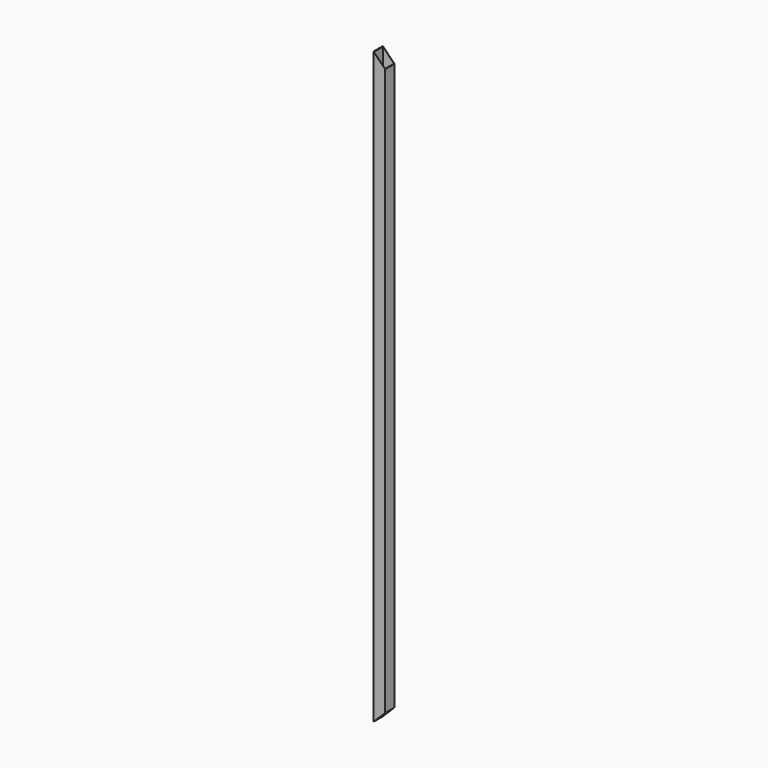
from build123d import *

# Parameters (mm, degrees)
F0_W     = 40
F0_H     = 40
F0_W_2   = 38
F0_H_2   = 38
F1_DEPTH = 1000
F3_DEPTH = 100


with BuildPart() as f1:
    # F0 (on Top) → F1 (new body, symmetric)
    with BuildSketch(Plane.XY):
        Rectangle(F0_W, F0_H)
        Rectangle(F0_W_2, F0_H_2, mode=Mode.SUBTRACT)
    extrude(amount=F1_DEPTH, both=True)

    # F2 (on face) → F3 (cut)
    with BuildSketch(Plane.XZ.offset(20)):
        Polygon((20, -960), (-20, -1000), (20, -1000), align=None)
        Polygon((20, 1000), (-20, 1000), (20, 960), align=None)
    extrude(amount=-F3_DEPTH, mode=Mode.SUBTRACT)


solid = f1.part
